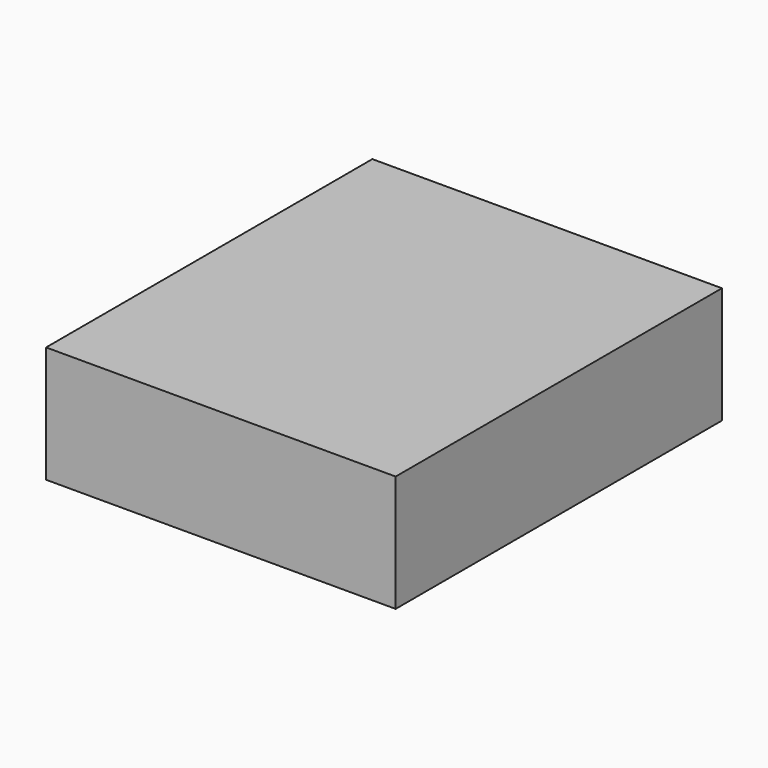
from build123d import *

# Parameters (mm, degrees)
F1_W      = 30
F1_H      = 35
F2_DEPTH  = 10
F3_W      = 23
F3_H      = 9
F4_DEPTH  = 3
F6_DEPTH  = 8
F7_W      = 9
F7_H      = 10
F8_DEPTH  = 8
F9_W      = 5.75
F9_H      = 1.9
F9_W_2    = 5.5
F10_DEPTH = 3
F11_W     = 6.5
F11_H     = 5
F12_DEPTH = 3
F13_W     = 6.5
F13_H     = 5
F14_DEPTH = 3


with BuildPart() as f2:
    # F1 (on face) → F2 (new body)
    with BuildSketch(Plane.XY):
        Rectangle(F1_W, F1_H)
    extrude(amount=F2_DEPTH)

    # F3 (on face) → F4 (cut)
    with BuildSketch(Plane.XY):
        Rectangle(F3_W, F3_H)
    extrude(amount=F4_DEPTH, mode=Mode.SUBTRACT)

    # F5 (on face) → F6 (cut)
    with BuildSketch(Plane.XY):
        Polygon((-5.5, 14), (-5.5, 6), (5.5, 6), (5.5, 14), (4.75, 15), (-4.75, 15), align=None)
    extrude(amount=F6_DEPTH, mode=Mode.SUBTRACT)

    # F7 (on face) → F8 (cut)
    with BuildSketch(Plane.XY):
        with Locations((0, -11)):
            Rectangle(F7_W, F7_H)
    extrude(amount=F8_DEPTH, mode=Mode.SUBTRACT)

    # F9 (on face) → F10 (join, through all)
    with BuildSketch(Plane(origin=(0, 0, 3), x_dir=(1, 0, 0), z_dir=(0, 0, -1))):
        with Locations((6.975, 1.8)):
            Rectangle(F9_W, F9_H)
        with Locations((-7.1, -1.8)):
            Rectangle(F9_W_2, F9_H)
        with Locations((1.225, 1.8)):
            Rectangle(F9_W, F9_H)
    extrude(amount=F10_DEPTH)

    # F11 (on face) → F12 (cut)
    with BuildSketch(Plane(origin=(0, 6, 0), x_dir=(-1, 0, 0), z_dir=(0, 1, 0))):
        with Locations((0, 5.5)):
            Rectangle(F11_W, F11_H)
    extrude(amount=-F12_DEPTH, mode=Mode.SUBTRACT)

    # F13 (on face) → F14 (cut)
    with BuildSketch(Plane.XZ.offset(6)):
        with Locations((0, 5.5)):
            Rectangle(F13_W, F13_H)
    extrude(amount=-F14_DEPTH, mode=Mode.SUBTRACT)


solid = f2.part
